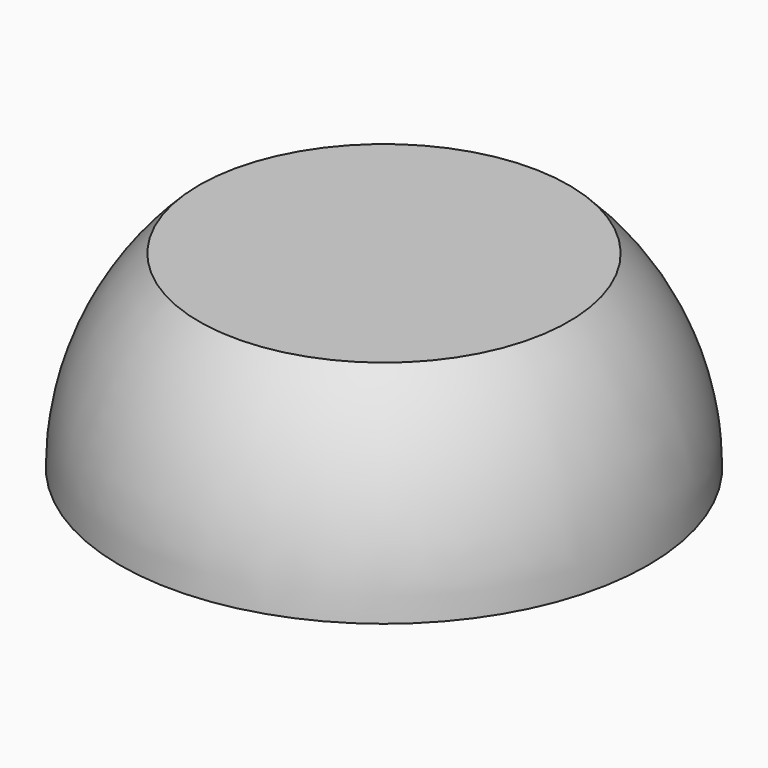
from build123d import *

# Parameters (mm, degrees)
F2_SIZE = 0.5


with BuildPart() as f1:
    # F0 (on Front) → F1 (revolve)
    with BuildSketch(Plane.XZ):
        with BuildLine():
            ThreePointArc((-9.797959, 10), (-12.906809, 5.423494), (-14, 0))
            Line((-14, 0), (-3.9, 0))
            Line((-3.9, 0), (-3.9, 6))
            Line((-3.9, 6), (0, 6))
            Line((0, 6), (0, 10))
            Line((0, 10), (-9.797959, 10))
        make_face()
    revolve(axis=Axis((0, 0, 8), (0, 0, 1)))

    # F2
    f2_edges = [f1.edges().sort_by_distance(p)[0] for p in [
        (3.9, 0, 0),
    ]]
    chamfer(f2_edges, length=F2_SIZE)


solid = f1.part
